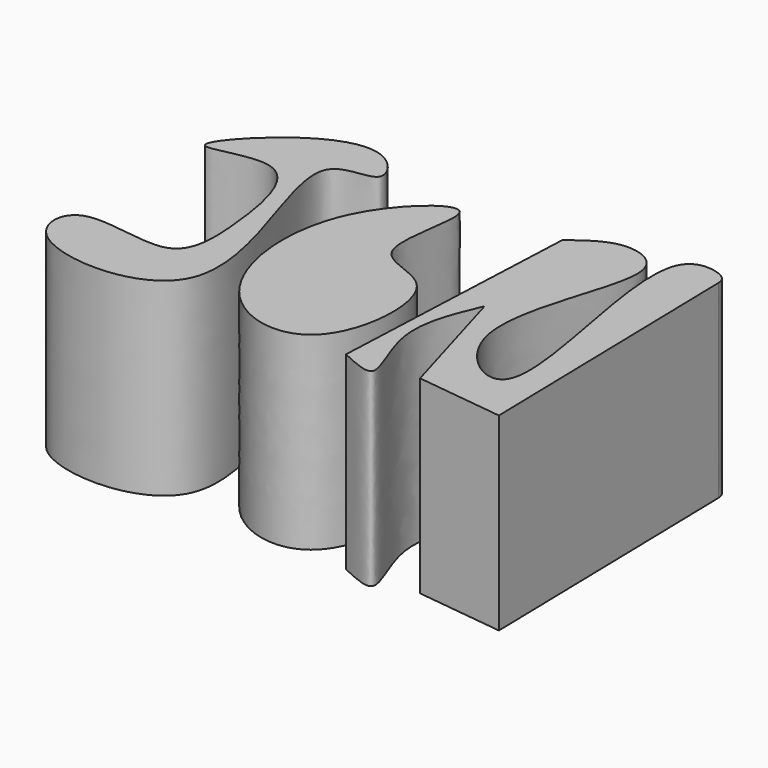
from build123d import *

# Parameters (mm, degrees)
F1_DEPTH = 31.5


with BuildPart() as f1:
    # F0 (on Top) → F1 (new body)
    with BuildSketch(Plane.XY):
        with BuildLine():
            add(Edge.make_bspline(
                [(-10.7336727912, 26.8696584819), (-7.6876199922, 33.4115707143), (4.5795444656, 43.3054421445), (-4.2069600778, 18.8728201318), (12.6351777543, 20.4140199266), (10.7135545376, -7.1782607397), (-11.9348765312, -2.6947670388), (-14.9048864291, 17.9112735416), (-10.7336727912, 26.8696584819)],
                knots=[0, 0, 0, 0, 0.1573647069, 0.3122068566, 0.4461454587, 0.6260469538, 0.7845074085, 1, 1, 1, 1], degree=3))
        make_face()
    extrude(amount=F1_DEPTH)


with BuildPart() as f1b:
    # F0 (on Top) → F1, piece 2 (new body)
    with BuildSketch(Plane.XY):
        with BuildLine():
            Line((15.395514667, 38.6385843158), (13.5269146413, -4.0277959779))
            add(Edge.make_bspline(
                [(19.1327165812, 17.7725441754), (17.3006639119, 13.501684665), (13.8749749652, 5.515759117), (21.9552878297, -7.9859005755), (16.0549713447, -5.2150135628), (13.5269146413, -4.0277959779)],
                knots=[0, 0, 0, 0, 0.3965157285, 0.7414304026, 1, 1, 1, 1], degree=3))
            Line((19.1327165812, 17.7725441754), (25.2575725317, -3.301117802))
            Line((25.2575725317, -3.301117802), (39.7911369801, -5.0659072585))
            Line((39.7911369801, -5.0659072585), (38.7530215085, 41.8567322195))
            add(Edge.make_bspline(
                [(15.395514667, 38.6385843158), (17.6674626226, 40.3816181426), (22.0683306057, 43.7579550623), (33.9650989363, 39.4203325873), (17.1079900728, 11.698460694), (43.0362063341, -6.9424236306), (24.1694967026, 47.1477393794), (38.5266813074, 44.0629838261), (38.6943323008, 42.4288054), (38.7530215085, 41.8567322195)],
                knots=[0, 0, 0, 0, 0.1169114001, 0.2264627744, 0.4421864825, 0.584991555, 0.840792316, 0.9442665227, 1, 1, 1, 1], degree=3))
        make_face()
    extrude(amount=F1_DEPTH)


with BuildPart() as f1c:
    # F0 (on Top) → F1, piece 3 (new body)
    with BuildSketch(Plane.XY):
        with BuildLine():
            add(Edge.make_bspline(
                [(-20.8973321877, 34.9515308247), (-23.6750868666, 29.8117521341), (-1.7714186272, -7.5644029405), (-40.5887230017, -6.2067835466), (-40.0780877923, 8.7960644031), (-19.9298755041, 0.7875181387), (-20.3331693885, 16.3901235805), (-23.7689952321, 35.6165307007), (-42.5887844976, 26.691863846), (-29.6485059643, 41.3728602417), (-17.5857501858, 45.0541679176), (-11.7095313138, 35.6756552025), (-19.6635590413, 37.2344253419), (-20.8973321877, 34.9515308247)],
                knots=[0, 0, 0, 0, 0.1491766478, 0.2670390127, 0.3344490549, 0.4307095055, 0.5159609709, 0.6176747464, 0.6980019511, 0.7845273996, 0.8743899331, 0.9337413979, 1, 1, 1, 1], degree=3))
        make_face()
    extrude(amount=F1_DEPTH)


solid = Compound([f1.part, f1b.part, f1c.part])
